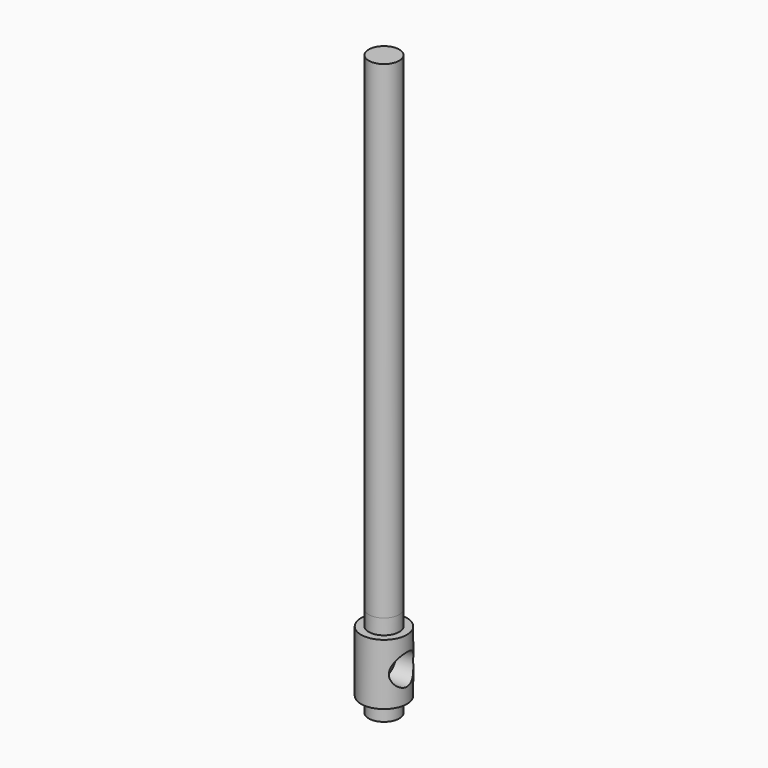
from build123d import *

# Parameters (mm, degrees)
F0_R     = 25
F1_DEPTH = 75
F0_R_2   = 37.5
F2_DEPTH = 50
F3_R     = 18
F4_DEPTH = 37.501
F5_R     = 25
F6_DEPTH = 37.5010001
F7_R     = 25
F8_DEPTH = 800


with BuildPart() as f1:
    # F0 (on Top) → F1 (new body, symmetric)
    with BuildSketch(Plane.XY):
        Circle(F0_R)
    extrude(amount=F1_DEPTH, both=True)

    # F0 (on Top) → F2 (join, symmetric)
    with BuildSketch(Plane.XY):
        Circle(F0_R_2)
        Circle(F0_R, mode=Mode.SUBTRACT)
    extrude(amount=F2_DEPTH, both=True)

    # F3 (on Right) → F4 (cut, through all)
    with BuildSketch(Plane.YZ):
        Circle(F3_R)
    extrude(amount=-F4_DEPTH, mode=Mode.SUBTRACT)

    # F5 (on Right) → F6 (cut, through all)
    with BuildSketch(Plane.YZ):
        Circle(F5_R)
    extrude(amount=F6_DEPTH, mode=Mode.SUBTRACT)

    # F7 (on face) → F8 (join)
    with BuildSketch(Plane.XY.offset(75)):
        Circle(F7_R)
    extrude(amount=F8_DEPTH)


solid = f1.part
